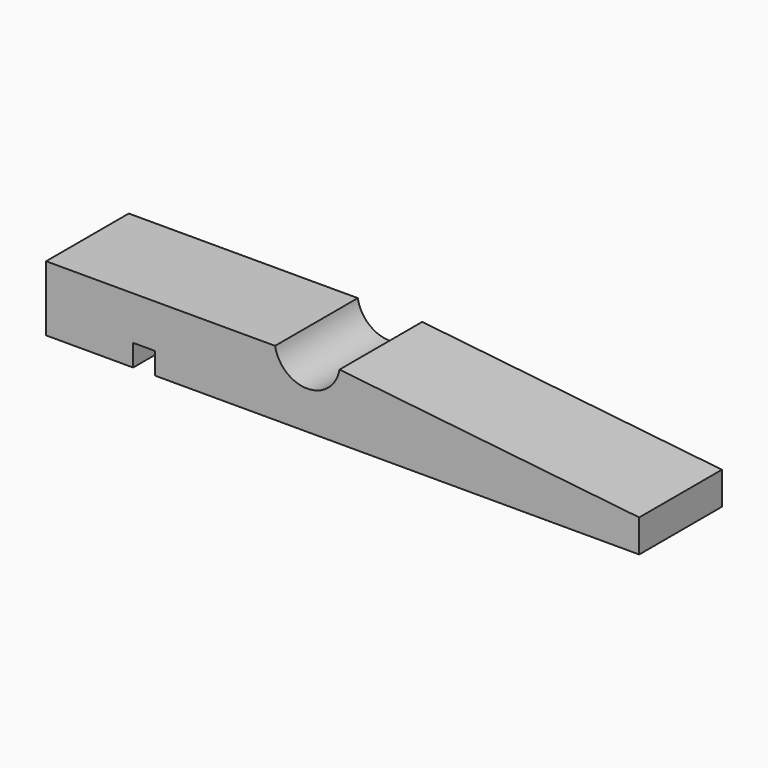
from build123d import *

# Parameters (mm, degrees)
F1_DEPTH = 9.5


with BuildPart() as f1:
    # F0 (on Front) → F1 (new body)
    with BuildSketch(Plane.XZ):
        with BuildLine():
            Line((-14, -6.5), (30.5, -6.5))
            Line((30.5, -6.5), (30.5, -3.5))
            Line((30.5, -3.5), (2.95804, -0.5))
            ThreePointArc((2.95804, -0.5), (0, -3), (-2.95804, -0.5))
            Line((-2.95804, -0.5), (-24, -0.5))
            Line((-24, -0.5), (-24, -6.5))
            Line((-24, -6.5), (-16, -6.5))
            Line((-16, -6.5), (-16, -4.5))
            Line((-16, -4.5), (-14, -4.5))
            Line((-14, -4.5), (-14, -6.5))
        make_face()
    extrude(amount=F1_DEPTH)


solid = f1.part
